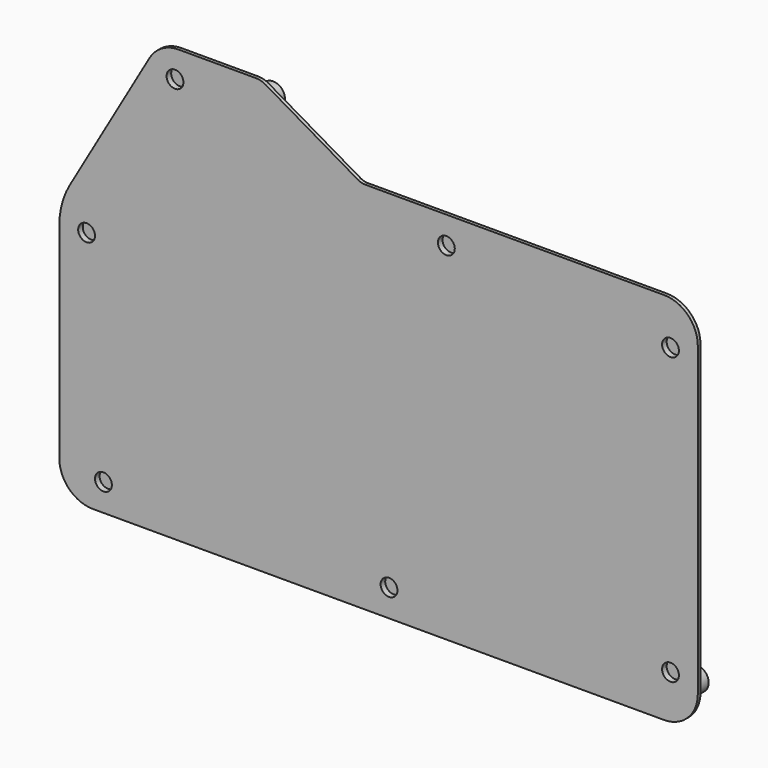
from build123d import *

# Parameters (mm, degrees)
PAD017_DEPTH    = 1
PAD018_DEPTH    = 2
SKETCH041_R     = 3.5
PAD019_DEPTH    = 3.3
SKETCH042_R     = 2.55
POCKET018_DEPTH = 4.3
SKETCH043_R     = 2.8
PAD020_DEPTH    = 1.5
SKETCH044_R     = 2.1
POCKET019_DEPTH = 3
SKETCH045_R     = 3.5
PAD021_DEPTH    = 5.8
SKETCH046_R     = 2.55
POCKET020_DEPTH = 3.8
SKETCH047_R     = 2.5
POCKET021_DEPTH = 1.7
POCKET025_DEPTH = 2


with BuildPart() as part:
    # Sketch038 → Pad017 (new body)
    with BuildSketch(Plane.XZ):
        with BuildLine():
            ThreePointArc((6, 16), (8.928932, 8.928932), (16, 6))
            Line((16, 6), (185.51, 6))
            ThreePointArc((185.51, 6), (192.581068, 8.928932), (195.51, 16))
            Line((195.51, 16), (195.51, 107.04))
            ThreePointArc((195.51, 107.04), (192.581068, 114.111068), (185.51, 117.04))
            Line((185.51, 117.04), (96.718237, 117.04))
            ThreePointArc((96.718237, 117.04), (95.677689, 117.177713), (94.70879, 117.58137))
            Line((94.70879, 117.58137), (67.290497, 133.511257))
            ThreePointArc((67.290497, 133.511257), (65.837149, 134.116742), (64.276328, 134.323311))
            Line((64.276328, 134.323311), (41.441667, 134.323311))
            ThreePointArc((41.441667, 134.323311), (36.445319, 132.985672), (32.785632, 129.330611))
            Line((32.785632, 129.330611), (9.11531, 88.412125))
            ThreePointArc((9.11531, 88.412125), (6.792371, 82.814067), (6, 76.805203))
            Line((6, 76.805203), (6, 16))
        make_face()
    extrude(amount=PAD017_DEPTH)

    # Sketch040 (on Face15 of Pad017) → Pad018 (join)
    with BuildSketch(Plane(origin=(0, 0, 0), x_dir=(1, 0, 0), z_dir=(0, 1, 0))):
        with BuildLine():
            Line((16.1, -9.1), (185.41, -9.1))
            ThreePointArc((192.41, -16.1), (190.359747, -11.150253), (185.41, -9.1))
            Line((192.41, -16.1), (192.41, -106.94))
            ThreePointArc((185.41, -113.94), (190.359747, -111.889747), (192.41, -106.94))
            Line((185.41, -113.94), (95.883059, -113.94))
            ThreePointArc((95.883059, -113.94), (94.842511, -114.077713), (93.873612, -114.48137))
            Line((93.873612, -114.48137), (66.455319, -130.411257))
            ThreePointArc((63.44115, -131.223311), (65.001971, -131.016742), (66.455319, -130.411257))
            Line((63.44115, -131.223311), (41.499346, -131.223311))
            ThreePointArc((35.440122, -127.728421), (38.001902, -130.286964), (41.499346, -131.223311))
            Line((35.440122, -127.728421), (12.21531, -87.580081))
            ThreePointArc((9.1, -75.97316), (9.892371, -81.982024), (12.21531, -87.580081))
            Line((9.1, -75.97316), (9.1, -16.1))
            ThreePointArc((16.1, -9.1), (11.150253, -11.150253), (9.1, -16.1))
        make_face()
    extrude(amount=PAD018_DEPTH)

    # Sketch041 (on Face31 of Pad018) → Pad019 (join)
    with BuildSketch(Plane(origin=(0, 2, 0), x_dir=(1, 0, 0), z_dir=(0, 1, 0))):
        with Locations((145.11, -12.99)):
            Circle(SKETCH041_R)
        with Locations((64.452126, -127.45504)):
            Circle(SKETCH041_R)
        with Locations((14.14, -13.51)):
            Circle(SKETCH041_R)
        with Locations((19.14, -90.503884)):
            Circle(SKETCH041_R)
        with Locations((105.9, -108.54)):
            Circle(SKETCH041_R)
        with Locations((74.12, -12.75)):
            Circle(SKETCH041_R)
    extrude(amount=PAD019_DEPTH)

    # Sketch042 (on Face38 of Pad019) → Pocket018 (cut)
    with BuildSketch(Plane(origin=(0, 5.3, 0), x_dir=(1, 0, 0), z_dir=(0, 1, 0))):
        with Locations((145.11, -12.99)):
            Circle(SKETCH042_R)
        with Locations((19.14, -90.503884)):
            Circle(SKETCH042_R)
        with Locations((64.452126, -127.45504)):
            Circle(SKETCH042_R)
        with Locations((105.9, -108.54)):
            Circle(SKETCH042_R)
        with Locations((14.14, -13.51)):
            Circle(SKETCH042_R)
        with Locations((74.12, -12.75)):
            Circle(SKETCH042_R)
    extrude(amount=-POCKET018_DEPTH, mode=Mode.SUBTRACT)

    # Sketch043 (on Face31 of Pocket018) → Pad020 (join)
    with BuildSketch(Plane(origin=(0, 2, 0), x_dir=(1, 0, 0), z_dir=(0, 1, 0))):
        with Locations((185.580566, -111.078545)):
            Circle(SKETCH043_R)
    extrude(amount=PAD020_DEPTH)

    # Sketch044 (on Face45 of Pad020) → Pocket019 (cut)
    with BuildSketch(Plane(origin=(0, 3.5, 0), x_dir=(1, 0, 0), z_dir=(0, 1, 0))):
        with Locations((185.580566, -111.078545)):
            Circle(SKETCH044_R)
    extrude(amount=-POCKET019_DEPTH, mode=Mode.SUBTRACT)

    # Sketch045 (on Face31 of Pocket019) → Pad021 (join)
    with BuildSketch(Plane(origin=(0, 2, 0), x_dir=(1, 0, 0), z_dir=(0, 1, 0))):
        with Locations((188.21, -14.18)):
            Circle(SKETCH045_R)
    extrude(amount=PAD021_DEPTH)

    # Sketch046 (on Face45 of Pad021) → Pocket020 (cut)
    with BuildSketch(Plane(origin=(0, 7.8, 0), x_dir=(1, 0, 0), z_dir=(0, 1, 0))):
        with Locations((188.21, -14.18)):
            Circle(SKETCH046_R)
    extrude(amount=-POCKET020_DEPTH, mode=Mode.SUBTRACT)

    # Sketch047 (on Face5 of Pocket020) → Pocket021 (cut)
    with BuildSketch(Plane.XZ.offset(1)):
        with Locations((187.41, 103.94)):
            Circle(SKETCH047_R)
        with Locations((40.34577, 126.223311)):
            Circle(SKETCH047_R)
        with Locations((14.1, 77.580081)):
            Circle(SKETCH047_R)
        with Locations((103.873612, 14.1)):
            Circle(SKETCH047_R)
        with Locations((187.41, 19.1)):
            Circle(SKETCH047_R)
        with Locations((120.883059, 108.94)):
            Circle(SKETCH047_R)
        with Locations((19.1, 14.1)):
            Circle(SKETCH047_R)
    extrude(amount=-POCKET021_DEPTH, mode=Mode.SUBTRACT)

    # Sketch056 (on Face38 of Pocket021) → Pocket025 (cut)
    with BuildSketch(Plane(origin=(0, 2, 0), x_dir=(1, 0, 0), z_dir=(0, 1, 0))):
        Polygon((146.906174, -8.786863), (146.906174, -9.81445), (150.102356, -9.81445), (150.102356, -15.780038), (161.659576, -15.780038), (161.659576, -9.891122), (164.762894, -9.891122), (164.762894, -8.786863), align=None)
    extrude(amount=-POCKET025_DEPTH, mode=Mode.SUBTRACT)


with BuildPart() as part_1:
    # Body004 placement: moved
    add(part.part.moved(Location((0, -118.5, 0))))


solid = part_1.part
